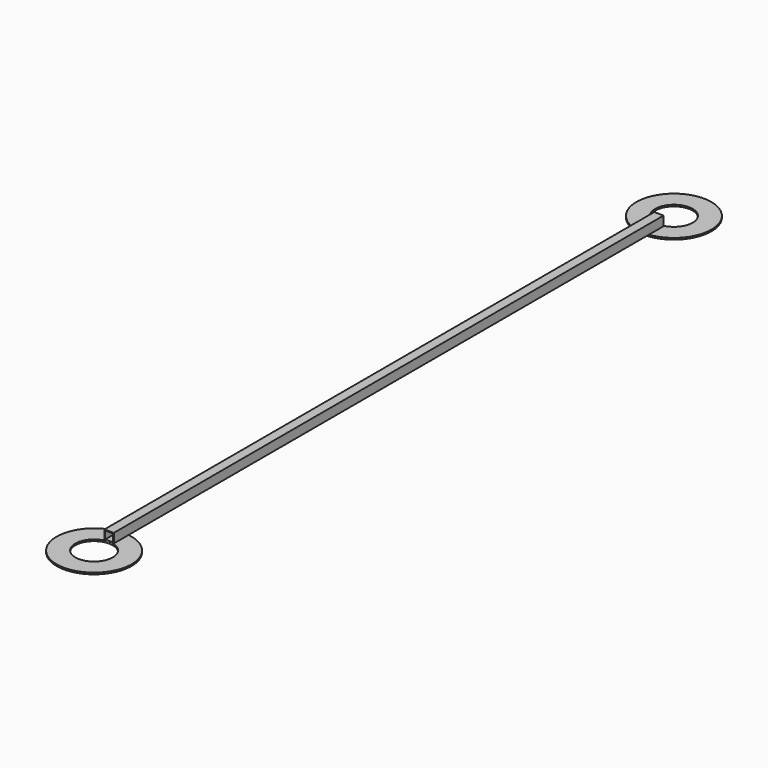
from build123d import *

# Parameters (mm, degrees)
F0_W     = 19.05
F0_H     = 19.05
F0_W_2   = 15.875
F0_H_2   = 15.875
F1_DEPTH = 1397
F3_DEPTH = 3.175
F5_DEPTH = 3.175


with BuildPart() as f1:
    # F0 (on Front) → F1 (new body)
    with BuildSketch(Plane.XZ):
        Rectangle(F0_W, F0_H)
        Rectangle(F0_W_2, F0_H_2, mode=Mode.SUBTRACT)
    extrude(amount=F1_DEPTH)

    # F2 (on face) → F3 (join)
    with BuildSketch(Plane(origin=(0, 0, -9.525), x_dir=(1, 0, 0), z_dir=(0, 0, -1))):
        with BuildLine():
            ThreePointArc((-9.525, 37.5023437137), (-50.4015624758, -95.25), (76.2, -38.1))
            ThreePointArc((76.2, -38.1), (57.15, 12.3015624758), (9.525, 37.5023437137))
            Line((9.525, 37.5023437137), (9.525, 0))
            Line((9.525, 0), (0, 0))
            Line((0, 0), (-9.525, 0))
            Line((-9.525, 0), (-9.525, 37.5023437137))
        make_face()
        with BuildLine():
            ThreePointArc((38.1, -38.1), (-26.9407683632, -65.0407683632), (0, 0))
            ThreePointArc((0, 0), (26.9407683632, -11.1592316368), (38.1, -38.1))
        make_face(mode=Mode.SUBTRACT)
        with BuildLine():
            Line((9.525, 0), (9.525, 37.5023437137))
            ThreePointArc((9.525, 37.5023437137), (0, 38.1), (-9.525, 37.5023437137))
            Line((-9.525, 37.5023437137), (-9.525, 0))
            Line((-9.525, 0), (0, 0))
            Line((0, 0), (9.525, 0))
        make_face()
    extrude(amount=F3_DEPTH)

    # F4 (on face) → F5 (join)
    with BuildSketch(Plane(origin=(0, 0, -9.525), x_dir=(1, 0, 0), z_dir=(0, 0, -1))):
        with BuildLine():
            ThreePointArc((9.525, 1359.4976562863), (57.15, 1384.6984375242), (76.2, 1435.1))
            ThreePointArc((76.2, 1435.1), (-50.4015624758, 1492.25), (-9.525, 1359.4976562863))
            Line((-9.525, 1359.4976562863), (-9.525, 1397))
            Line((-9.525, 1397), (0, 1397))
            Line((0, 1397), (9.525, 1397))
            Line((9.525, 1397), (9.525, 1359.4976562863))
        make_face()
        with BuildLine():
            ThreePointArc((38.1, 1435.1), (26.9407683632, 1408.1592316368), (0, 1397))
            ThreePointArc((0, 1397), (-26.9407683632, 1462.0407683632), (38.1, 1435.1))
        make_face(mode=Mode.SUBTRACT)
        with BuildLine():
            Line((-9.525, 1397), (-9.525, 1359.4976562863))
            ThreePointArc((-9.525, 1359.4976562863), (0, 1358.9), (9.525, 1359.4976562863))
            Line((9.525, 1359.4976562863), (9.525, 1397))
            Line((9.525, 1397), (0, 1397))
            Line((0, 1397), (-9.525, 1397))
        make_face()
    extrude(amount=F5_DEPTH)


solid = f1.part
